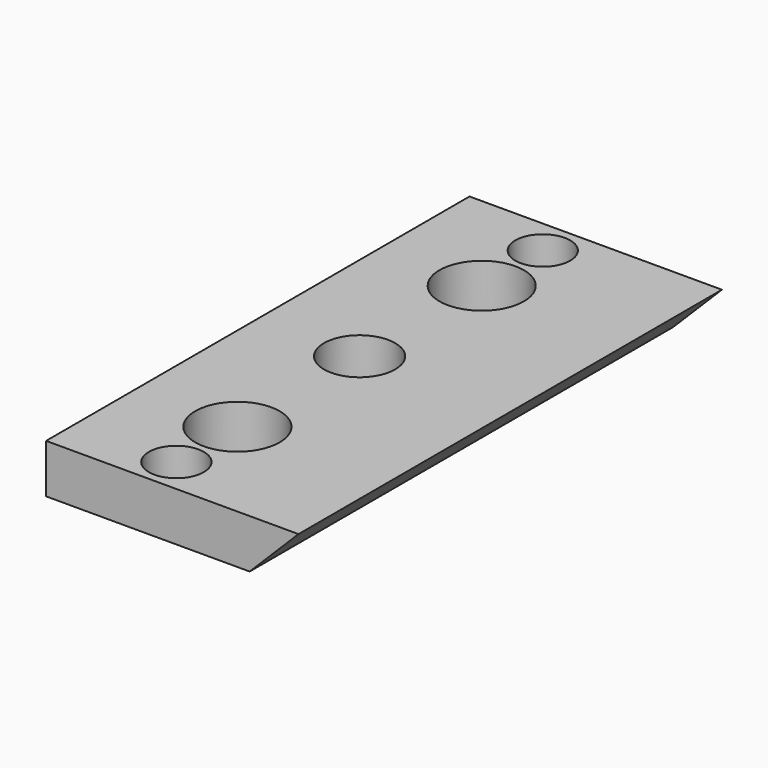
from build123d import *

# Parameters (mm, degrees)
CYLINDER1006_R     = 4.15
CYLINDER1006_DEPTH = 70
CYLINDER1020_R     = 2.7
CYLINDER1020_DEPTH = 10
CYLINDER1018_R     = 1.7
CYLINDER1018_DEPTH = 10
CYLINDER1032_R     = 3.5
CYLINDER1032_DEPTH = 10
PAD021_DEPTH       = 52


with BuildPart() as obj1:
    # Cylinder1006 → Cylinder1006 (new body)
    with BuildSketch(Plane.XY):
        Circle(CYLINDER1006_R)
    extrude(amount=CYLINDER1006_DEPTH)


with BuildPart() as obj2:
    # Clone046 base: copy of obj1
    add(obj1.part)


with BuildPart() as obj2_1:
    # Clone046 placement: moved
    add(obj2.part.moved(Location((10, -11, -55.2))))


with BuildPart() as cylinder1015:
    # Cylinder1020 → Cylinder1020 (new body)
    with BuildSketch(Plane.XY.offset(10)):
        Circle(CYLINDER1020_R)
    extrude(amount=CYLINDER1020_DEPTH)


with BuildPart() as m3bolthead:
    # Cylinder1018 → Cylinder1018 (new body)
    with BuildSketch(Plane.XY):
        Circle(CYLINDER1018_R)
    extrude(amount=CYLINDER1018_DEPTH)

    # Fusion024: union Cylinder1015
    add(cylinder1015.part)


with BuildPart() as clone_of_m3bolthead005:
    # Clone047 base: copy of M3BoltHead
    add(m3bolthead.part)


with BuildPart() as clone_of_m3bolthead005_1:
    # Clone047 placement: moved
    add(clone_of_m3bolthead005.part.moved(Location((10, -3.5, -8.2))))


with BuildPart() as clone_of_m3bolthead006:
    # Clone048 base: copy of M3BoltHead
    add(m3bolthead.part)


with BuildPart() as clone_of_m3bolthead006_1:
    # Clone048 placement: moved
    add(clone_of_m3bolthead006.part.moved(Location((10, -48.5, -8.2))))


with BuildPart() as cylinder1046:
    # Cylinder1032 → Cylinder1032 (new body)
    with BuildSketch(Plane(origin=(10, -26, -4.4), x_dir=(1, 0, 0), z_dir=(0, 0, 1))):
        Circle(CYLINDER1032_R)
    extrude(amount=CYLINDER1032_DEPTH)


with BuildPart() as fusion049:
    # Clone045 base: copy of obj1
    add(obj1.part)


with BuildPart() as fusion049_1:
    # Clone045 placement: moved
    add(fusion049.part.moved(Location((10, -41, -55.2))))

    # Fusion049: union obj2, Clone of M3BoltHead005, Clone of M3BoltHead006, Cylinder1046
    add(obj2_1.part)
    add(clone_of_m3bolthead005_1.part)
    add(clone_of_m3bolthead006_1.part)
    add(cylinder1046.part)


with BuildPart() as obj3:
    # Sketch022 → Pad021 (new body)
    with BuildSketch(Plane.XZ):
        Polygon((0, 0), (0, 4.8), (24.8, 4.8), (20, 0), align=None)
    extrude(amount=PAD021_DEPTH)

    # Cut051: cut Fusion049
    add(fusion049_1.part, mode=Mode.SUBTRACT)


solid = obj3.part
